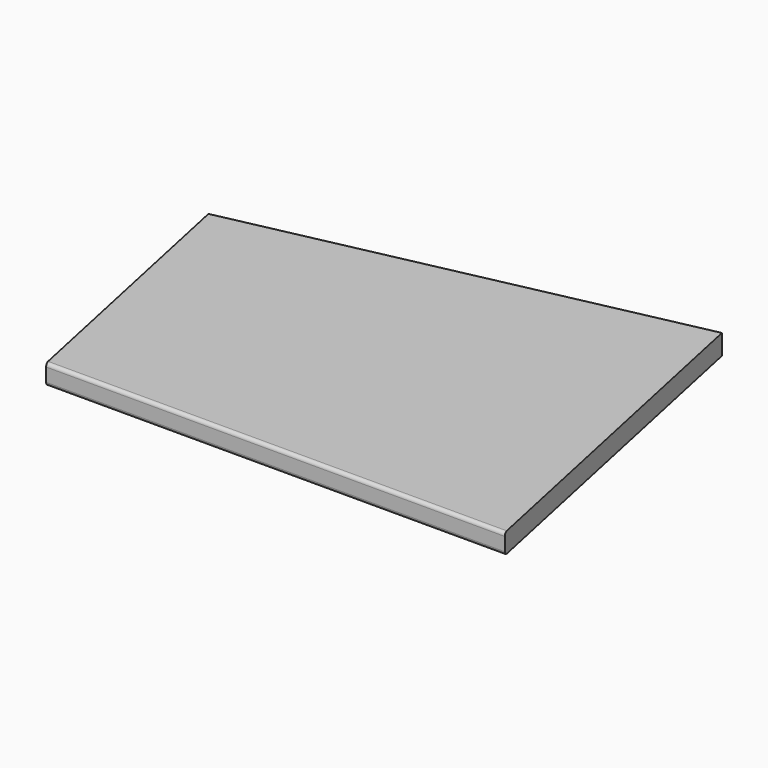
from build123d import *

# Parameters (mm, degrees)
F2_DEPTH = 500
F3_DEPTH = 50


with BuildPart() as f2:
    # F0 (on Right) → F2 (new body, symmetric)
    with BuildSketch(Plane.YZ):
        with BuildLine():
            Line((300, -15), (300, 15))
            Line((300, 15), (-295, 15))
            ThreePointArc((-295, 15), (-298.535534, 13.535534), (-300, 10))
            Line((-300, 10), (-300, -10))
            ThreePointArc((-300, -10), (-298.535534, -13.535534), (-295, -15))
            Line((-295, -15), (300, -15))
        make_face()
    extrude(amount=F2_DEPTH, both=True)

    # F1 (on Top) → F3 (intersect, symmetric)
    with BuildSketch(Plane.XY):
        Polygon((-319.224087, 110.821992), (-189.972164, -497.260498), (462.452286, -358.5834), (333.200363, 249.49909), align=None)
    extrude(amount=F3_DEPTH, both=True, mode=Mode.INTERSECT)


solid = f2.part
